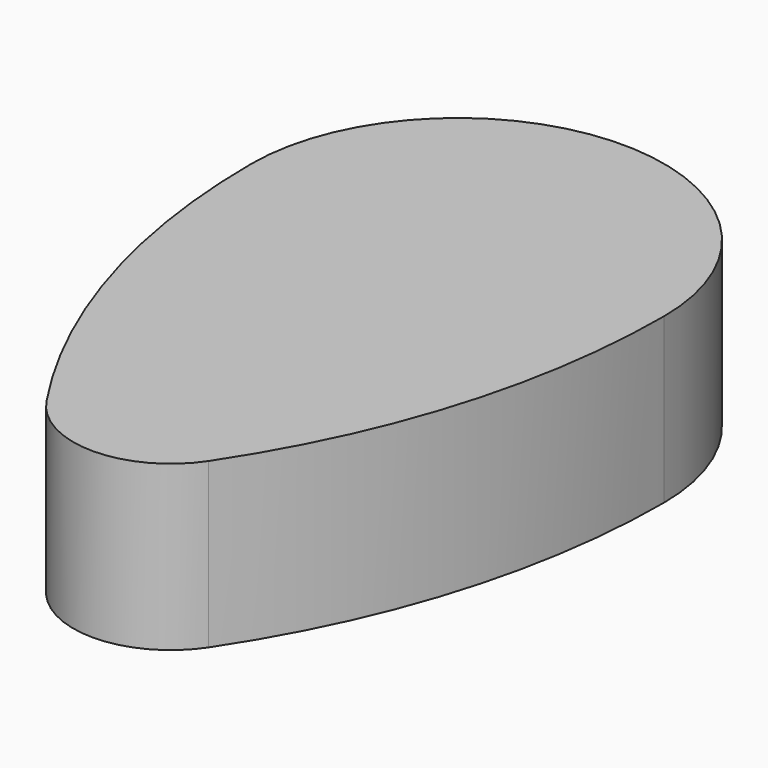
from build123d import *

# Parameters (mm, degrees)
F1_DEPTH = 12.7


with BuildPart() as f1:
    # F0 (on Top) → F1 (new body, symmetric)
    with BuildSketch(Plane.XY):
        with BuildLine():
            ThreePointArc((31.941714, 0), (0, 31.941714), (-31.941714, 0))
            ThreePointArc((-31.941714, 0), (-26.966809, -33.440131), (-12.47299, -63.983891))
            ThreePointArc((-12.47299, -63.983891), (0.080952, -70.717815), (12.634894, -63.983891))
            ThreePointArc((12.634894, -63.983891), (27.009875, -33.416656), (31.941714, 0))
        make_face()
    extrude(amount=F1_DEPTH, both=True)


solid = f1.part
